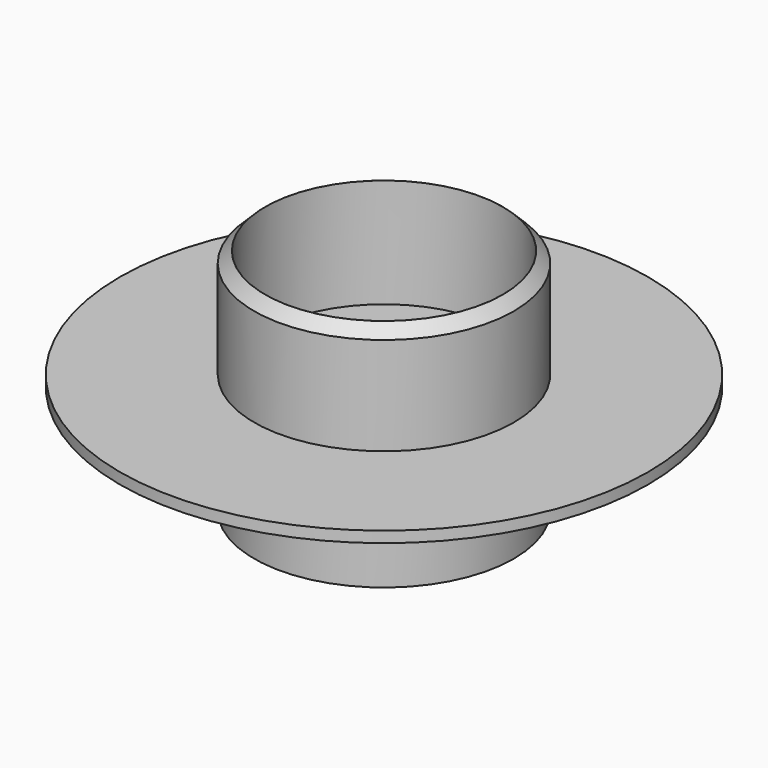
from build123d import *

# Parameters (mm, degrees)
F0_R          = 37.465
F0_R_2        = 34.28492
F1_DEPTH      = 33.02
F1_DEPTH_BACK = 33.02
F2_SIZE       = 3.175
F3_R          = 76.2
F4_DEPTH      = 1.5875
F4_DEPTH_BACK = 1.5875
F5_R          = 12.7


with BuildPart() as f1:
    # F0 (on Top) → F1 (new body, two sides)
    with BuildSketch(Plane.XY) as f1_sk:
        Circle(F0_R)
        Circle(F0_R_2, mode=Mode.SUBTRACT)
    extrude(amount=F1_DEPTH)
    extrude(f1_sk.sketch, amount=-F1_DEPTH_BACK)

    # F2
    f2_edges = [f1.edges().sort_by_distance(p)[0] for p in [
        (-37.465, 0, 33.02),
    ]]
    chamfer(f2_edges, length=F2_SIZE)

    # F3 (on Top) → F4 (join, two sides)
    with BuildSketch(Plane.XY) as f4_sk:
        Circle(F3_R)
        with BuildLine():
            ThreePointArc((15.7090324336, -5.08), (-16.51, 0), (15.7090324336, 5.08))
            Line((15.7090324336, 5.08), (27.08475078, 5.08))
            Line((27.08475078, 5.08), (27.08475078, -5.08))
            Line((27.08475078, -5.08), (15.7090324336, -5.08))
        make_face(mode=Mode.SUBTRACT)
    extrude(amount=F4_DEPTH)
    extrude(f4_sk.sketch, amount=-F4_DEPTH_BACK)

    # F5
    f5_edges = [f1.edges().sort_by_distance(p)[0] for p in [
        (-37.465, 0, -1.5875),
    ]]
    fillet(f5_edges, radius=F5_R)


solid = f1.part
